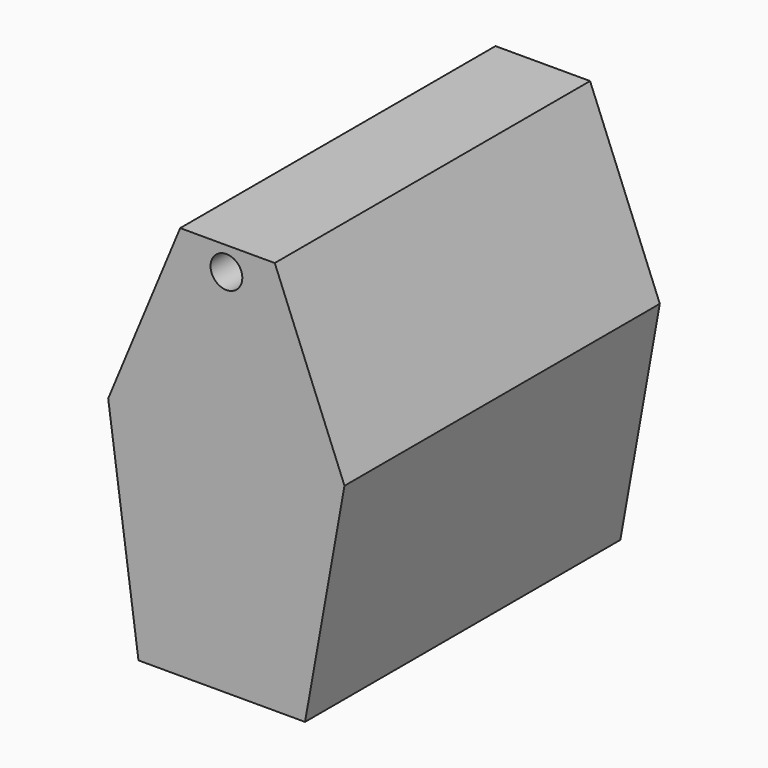
from build123d import *

# Parameters (mm, degrees)
F0_R     = 10.0754230866
F1_DEPTH = 250


with BuildPart() as f1:
    # F0 (on Front) → F1 (new body)
    with BuildSketch(Plane.XZ):
        Polygon((1.384e-07, 130.2908220107), (-29.3460638914, 130.2908220107), (-75, 20.2908220107), (-55.803976953, -119.7091779893), (49.8614832759, -119.7091779893), (74.8796984553, 20.2908220107), (30.6539361086, 130.2908220107), align=None)
        with BuildLine():
            ThreePointArc((15, 115.2908220107), (-10.6066017667, 104.6842203418), (1.384e-07, 130.2908220107))
            ThreePointArc((1.384e-07, 130.2908220107), (10.6066017667, 125.8974236795), (15, 115.2908220107))
        make_face(mode=Mode.SUBTRACT)
        with BuildLine():
            ThreePointArc((15, 115.2908220107), (10.6066017667, 125.8974236795), (1.384e-07, 130.2908220107))
            ThreePointArc((1.384e-07, 130.2908220107), (-10.6066017667, 104.6842203418), (15, 115.2908220107))
        make_face()
        with Locations((0, 115.2908220107)):
            Circle(F0_R, mode=Mode.SUBTRACT)
    extrude(amount=F1_DEPTH)


solid = f1.part
